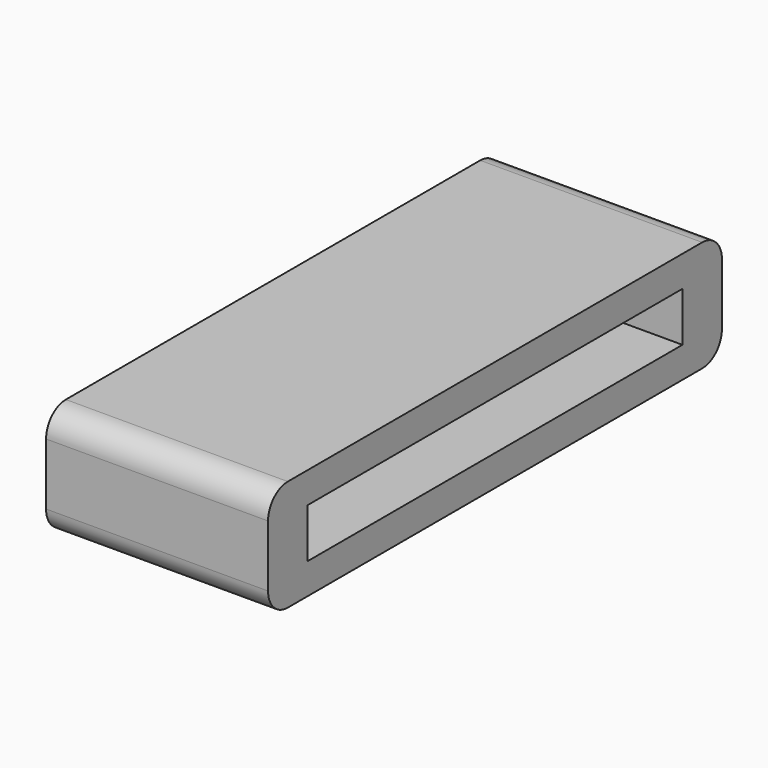
from build123d import *

# Parameters (mm, degrees)
F0_W     = 18
F0_H     = 46
F1_DEPTH = 9
F2_W     = 38
F2_H     = 4
F3_DEPTH = 18.001
F4_R     = 2


with BuildPart() as f1:
    # F0 (on Top) → F1 (new body)
    with BuildSketch(Plane.XY):
        Rectangle(F0_W, F0_H)
    extrude(amount=F1_DEPTH)

    # F2 (on face) → F3 (cut, through all)
    with BuildSketch(Plane.YZ.offset(9)):
        with Locations((0, 4.5)):
            Rectangle(F2_W, F2_H)
    extrude(amount=-F3_DEPTH, mode=Mode.SUBTRACT)

    # F4
    f4_edges = [f1.edges().sort_by_distance(p)[0] for p in [
        (0, -23, 9),
        (0, -23, 0),
        (0, 23, 9),
        (0, 23, 0),
    ]]
    fillet(f4_edges, radius=F4_R)


solid = f1.part
